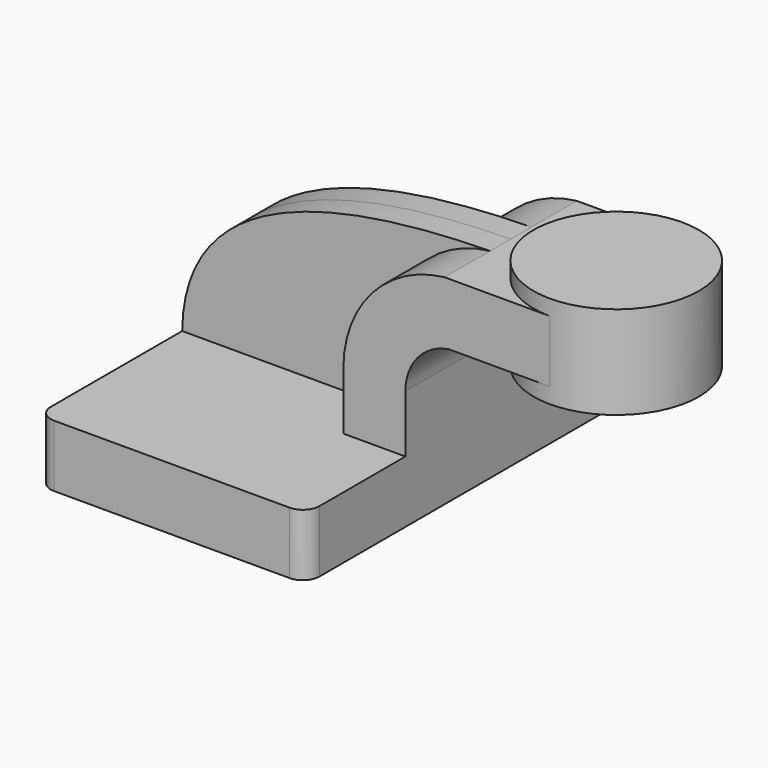
from build123d import *

# Parameters (mm, degrees)
F1_DEPTH = 63.5
F0_W     = 25.4
F0_H     = 19.05
F2_DEPTH = 25.4
F3_DEPTH = 7.9375
F5_R     = 5.08
F6_R     = 5.08
F7_R     = 5.08
F8_R     = 5.08


with BuildPart() as f1:
    # F0 (on Front) → F1 (new body, symmetric)
    with BuildSketch(Plane.XZ):
        Polygon((41.275, -9.525), (41.275, 9.525), (22.225, 9.525), (-41.275, 9.525), (-41.275, -9.525), align=None)
    extrude(amount=F1_DEPTH, both=True)

    # F0 (on Front) → F2 (join, symmetric)
    with BuildSketch(Plane.XZ):
        with BuildLine():
            Line((22.225, 9.525), (41.275, 9.525))
            Line((41.275, 9.525), (41.275, 27.2120934423))
            ThreePointArc((41.275, 27.2120934423), (45.0451659726, 37.4828586606), (54.5649046512, 42.8752))
            Line((54.5649046512, 42.8752), (60.325, 42.8752))
            Line((60.325, 42.8752), (60.325, 61.9252))
            Line((60.325, 61.9252), (53.3086645403, 61.9252))
            ThreePointArc((53.3086645403, 61.9252), (31.1316001075, 50.5101296693), (22.225, 27.2120934423))
            Line((22.225, 27.2120934423), (22.225, 9.525))
        make_face()
        with Locations((73.025, 52.4002)):
            Rectangle(F0_W, F0_H)
    extrude(amount=F2_DEPTH, both=True)

    # F0 (on Front) → F3 (join, symmetric)
    with BuildSketch(Plane.XZ):
        with BuildLine():
            Line((-41.275, 9.525), (22.225, 9.525))
            Line((22.225, 9.525), (22.225, 27.2120934423))
            ThreePointArc((22.225, 27.2120934423), (31.1316001075, 50.5101296693), (53.3086645403, 61.9252))
            add(Edge.make_bspline(
                [(-41.275, 9.525), (-40.7104454935, 50.98317191), (6.0875406489, 61.2558983266), (53.3086645403, 61.9252)],
                knots=[0, 0, 0, 0, 108.1288608925, 108.1288608925, 108.1288608925, 108.1288608925], degree=3))
        make_face()
    extrude(amount=F3_DEPTH, both=True)

    # F0 (on Front) → F4 (revolve)
    with BuildSketch(Plane.XZ):
        Polygon((85.725, 61.9252), (85.725, 42.8752), (85.725, 38.1), (111.125, 38.1), (111.125, 66.675), (85.725, 66.675), align=None)
    revolve(axis=Axis((85.725, 0, 52.3875), (0, 0, 1)))

    # F5
    f5_edges = [f1.edges().sort_by_distance(p)[0] for p in [
        (41.275, -63.5, 0),
    ]]
    fillet(f5_edges, radius=F5_R)

    # F6
    f6_edges = [f1.edges().sort_by_distance(p)[0] for p in [
        (41.275, 63.5, 0),
    ]]
    fillet(f6_edges, radius=F6_R)

    # F7
    f7_edges = [f1.edges().sort_by_distance(p)[0] for p in [
        (-41.275, 63.5, 0),
    ]]
    fillet(f7_edges, radius=F7_R)

    # F8
    f8_edges = [f1.edges().sort_by_distance(p)[0] for p in [
        (-41.275, -63.5, 0),
    ]]
    fillet(f8_edges, radius=F8_R)


solid = f1.part
